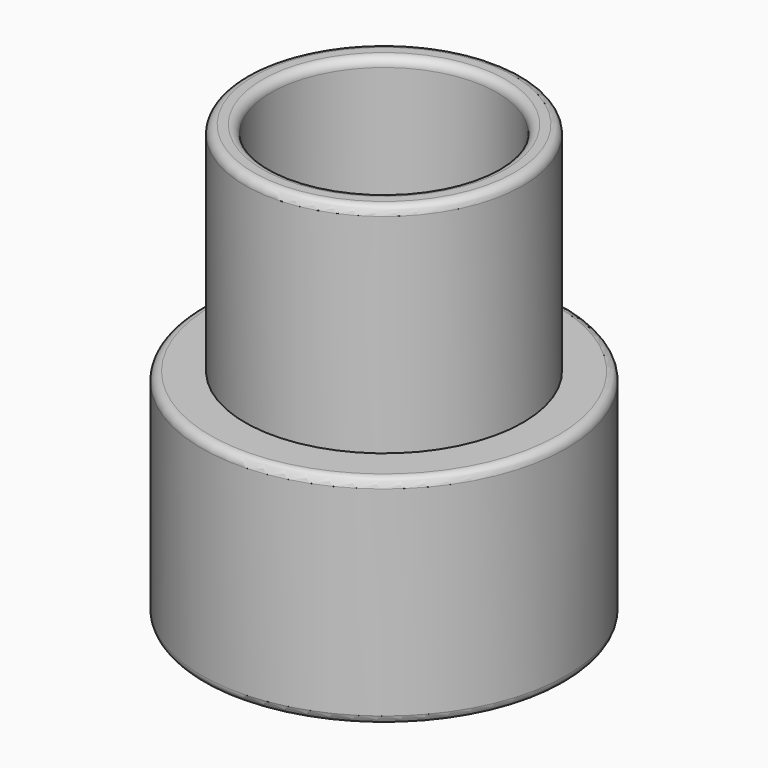
from build123d import *

# Parameters (mm, degrees)
CYLINDER002_R     = 13
CYLINDER002_DEPTH = 120
CYLINDER001_R     = 16
CYLINDER001_DEPTH = 50
FILLET001_R       = 1
CYLINDER003_R     = 16
CYLINDER003_DEPTH = 120
CYLINDER_R        = 21
CYLINDER_DEPTH    = 25
FILLET_R          = 1


with BuildPart() as obj1:
    # Cylinder002 → Cylinder002 (new body)
    with BuildSketch(Plane.XY.offset(-60)):
        Circle(CYLINDER002_R)
    extrude(amount=CYLINDER002_DEPTH)


with BuildPart() as fillet001:
    # Cylinder001 → Cylinder001 (new body)
    with BuildSketch(Plane.XY):
        Circle(CYLINDER001_R)
    extrude(amount=CYLINDER001_DEPTH)

    # Cut: cut obj1
    add(obj1.part, mode=Mode.SUBTRACT)

    # Fillet001
    fillet001_edges = [fillet001.edges().sort_by_distance(p)[0] for p in [
        (-16, 0, 50),
        (-13, 0, 50),
        (-13, 0, 0),
    ]]
    fillet(fillet001_edges, radius=FILLET001_R)


with BuildPart() as obj2:
    # Cylinder003 → Cylinder003 (new body)
    with BuildSketch(Plane.XY.offset(-60)):
        Circle(CYLINDER003_R)
    extrude(amount=CYLINDER003_DEPTH)


with BuildPart() as fusion:
    # Cylinder → Cylinder (new body)
    with BuildSketch(Plane.XY):
        Circle(CYLINDER_R)
    extrude(amount=CYLINDER_DEPTH)

    # Cut001: cut obj2
    add(obj2.part, mode=Mode.SUBTRACT)

    # Fillet
    fillet_edges = [fusion.edges().sort_by_distance(p)[0] for p in [
        (-21, 0, 25),
        (-21, 0, 0),
    ]]
    fillet(fillet_edges, radius=FILLET_R)

    # Fusion: union Fillet001
    add(fillet001.part)


solid = fusion.part
